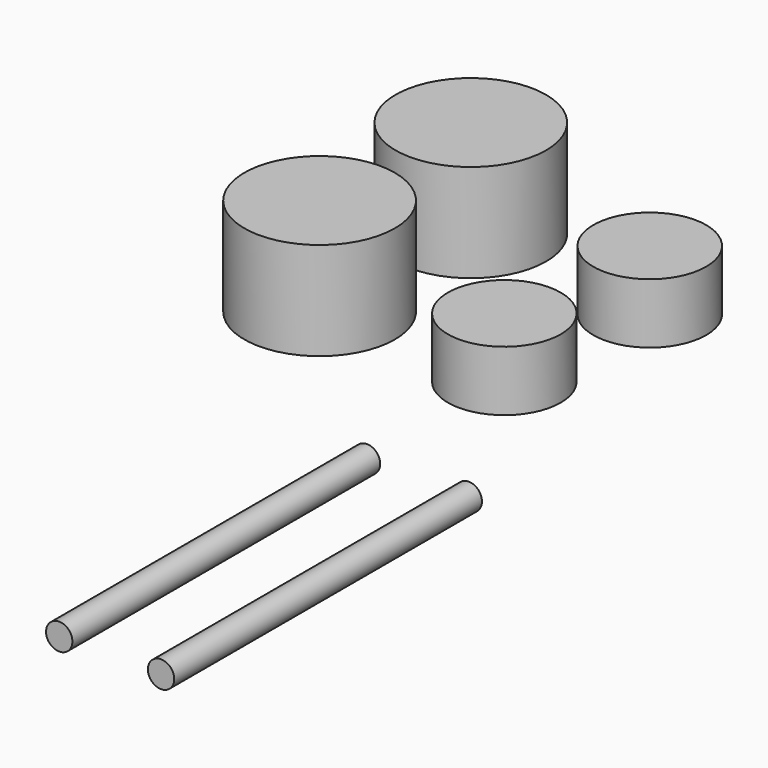
from build123d import *

# Parameters (mm, degrees)
F0_R     = 1.75
F1_DEPTH = 51.1
F2_R     = 7.5
F3_DEPTH = 8
F4_R     = 10
F5_DEPTH = 13
F7_R     = 1.75
F8_DEPTH = 51.1
F6_R     = 2
F9_DEPTH = 6


with BuildPart() as f1:
    # F0 (on Front) → F1 (new body)
    with BuildSketch(Plane.XZ):
        with Locations((-17.28292, 0)):
            Circle(F0_R)
    extrude(amount=F1_DEPTH)


with BuildPart() as f3:
    # F2 (on Top) → F3 (new body)
    with BuildSketch(Plane.XY):
        with Locations((-30.515021, 22.439414)):
            Circle(F2_R)
        with Locations((-28.212463, 43.711599)):
            Circle(F2_R)
    extrude(amount=F3_DEPTH)


with BuildPart() as f5:
    # F4 (on Top) → F5 (new body)
    with BuildSketch(Plane.XY):
        with Locations((-54.012599, 46.247213)):
            Circle(F4_R)
        with Locations((-55.318636, 22.77125)):
            Circle(F4_R)
    extrude(amount=F5_DEPTH)


with BuildPart() as f8:
    # F7 (on Front) → F8 (new body)
    with BuildSketch(Plane.XZ):
        with Locations((-30.808685, 0)):
            Circle(F7_R)
    extrude(amount=F8_DEPTH)


with BuildPart() as f9:
    # F6 (on Top) → F9 (new body)
    with BuildSketch(Plane.XY):
        with Locations((-54.012599, 46.247213)):
            Circle(F6_R)
        with Locations((-28.10913, 43.702018)):
            Circle(F6_R)
        with Locations((-30.234499, 22.098629)):
            Circle(F6_R)
        with Locations((-55.366088, 22.758037)):
            Circle(F6_R)
    extrude(amount=F9_DEPTH)


solid = Compound([f1.part, f3.part, f5.part, f8.part, f9.part])
